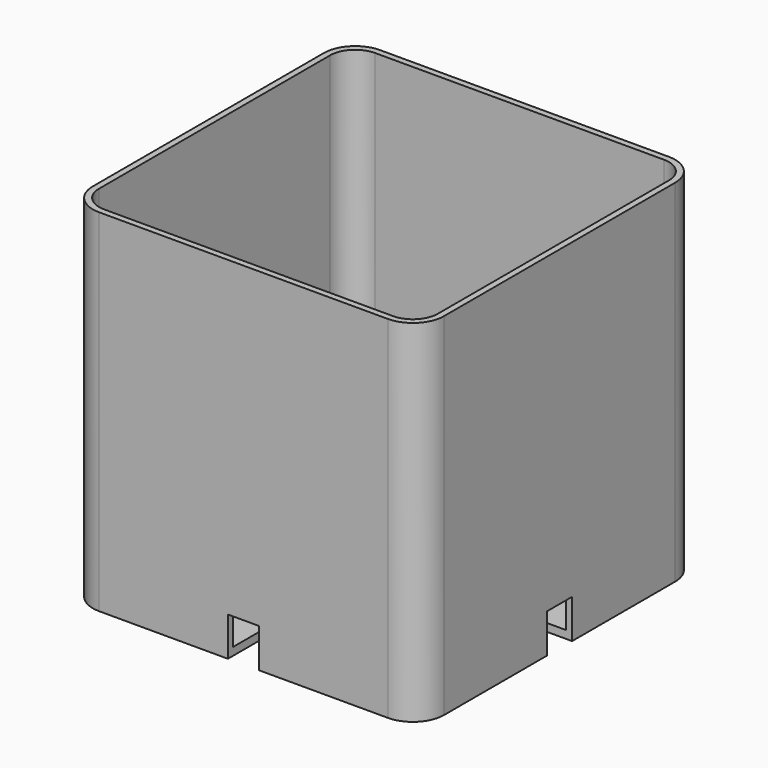
from build123d import *

# Parameters (mm, degrees)
PAD_DEPTH       = 45
POCKET_DEPTH    = 44
SKETCH002_R     = 2.5
SKETCH002_W     = 4
SKETCH002_H     = 8
SKETCH002_W_2   = 8
SKETCH002_H_2   = 4
POCKET001_DEPTH = 5


with BuildPart() as part:
    # Sketch → Pad (new body)
    with BuildSketch(Plane.XY):
        with BuildLine():
            Line((4, 0), (41, 0))
            ThreePointArc((41, 0), (43.828427, 1.171573), (45, 4))
            Line((45, 4), (45, 41))
            ThreePointArc((45, 41), (43.828427, 43.828427), (41, 45))
            Line((41, 45), (4, 45))
            ThreePointArc((4, 45), (1.171573, 43.828427), (0, 41))
            Line((0, 41), (0, 4))
            ThreePointArc((0, 4), (1.171573, 1.171573), (4, 0))
        make_face()
    extrude(amount=PAD_DEPTH)

    # Sketch001 (on Face10 of Pad) → Pocket (cut)
    with BuildSketch(Plane.XY.offset(45)):
        with BuildLine():
            Line((4, 0.8), (41, 0.8))
            ThreePointArc((41, 0.8), (43.262742, 1.737258), (44.2, 4))
            Line((44.2, 4), (44.2, 41))
            ThreePointArc((44.2, 41), (43.262742, 43.262742), (41, 44.2))
            Line((41, 44.2), (4, 44.2))
            ThreePointArc((4, 44.2), (1.737258, 43.262742), (0.8, 41))
            Line((0.8, 41), (0.8, 4))
            ThreePointArc((0.8, 4), (1.737258, 1.737258), (4, 0.8))
        make_face()
    extrude(amount=-POCKET_DEPTH, mode=Mode.SUBTRACT)

    # Sketch002 (on Face4 of Pocket) → Pocket001 (cut)
    with BuildSketch(Plane(origin=(0, 0, 0), x_dir=(1, 0, 0), z_dir=(0, 0, -1))):
        with Locations((10, -10)):
            Circle(SKETCH002_R)
        with Locations((22.5, -22.5)):
            Circle(SKETCH002_R)
        with Locations((35, -10)):
            Circle(SKETCH002_R)
        with Locations((35, -35)):
            Circle(SKETCH002_R)
        with Locations((10, -35)):
            Circle(SKETCH002_R)
        with Locations((22.5, -4)):
            Rectangle(SKETCH002_W, SKETCH002_H)
        with Locations((4, -22.5)):
            Rectangle(SKETCH002_W_2, SKETCH002_H_2)
        with Locations((41, -22.5)):
            Rectangle(SKETCH002_W_2, SKETCH002_H_2)
        with Locations((22.5, -41)):
            Rectangle(SKETCH002_W, SKETCH002_H)
    extrude(amount=-POCKET001_DEPTH, mode=Mode.SUBTRACT)


solid = part.part
